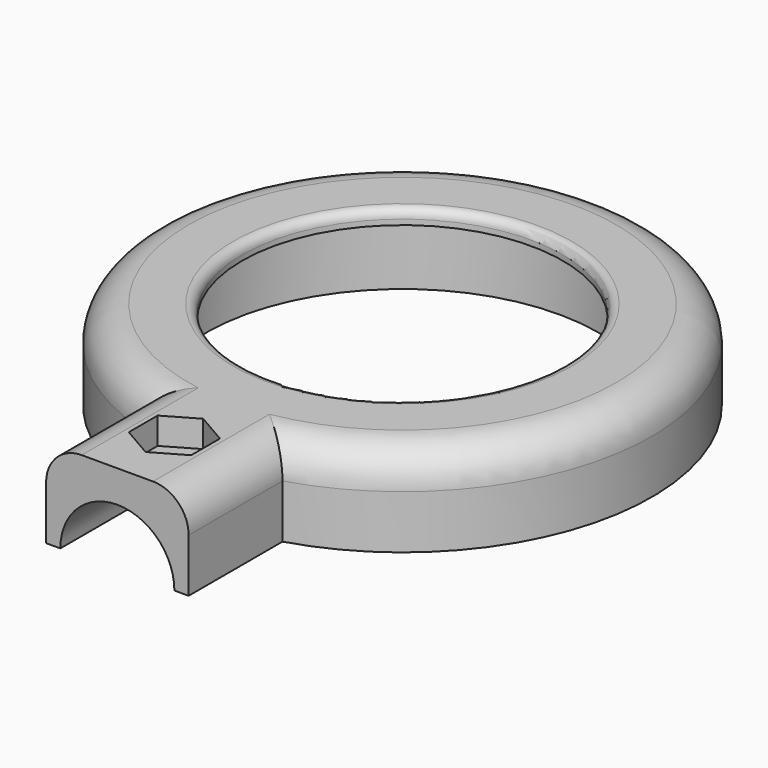
from build123d import *

# Parameters (mm, degrees)
SKETCH_R           = 18
PAD_DEPTH          = 10
SKETCH001_R        = 22
POCKET_DEPTH       = 8.4
SKETCH002_R        = 6.4
POCKET001_DEPTH    = 17
SKETCH003_R        = 5
POCKET002_DEPTH    = 5
SKETCH004_R        = 1
POCKET003_DEPTH    = 8
POLARPATTERN_COUNT = 5
POCKET004_DEPTH    = 3
SKETCH006_R        = 2
POCKET005_DEPTH    = 5
FILLET_R           = 4
FILLET001_R        = 1


with BuildPart() as part:
    # Sketch → Pad (new body)
    with BuildSketch(Plane.XY):
        with BuildLine():
            Line((-8, -40), (8, -40))
            Line((8, -40), (8, -26.832816))
            ThreePointArc((8, -26.832816), (0, 28), (-8, -26.832816))
            Line((-8, -26.832816), (-8, -40))
        make_face()
        Circle(SKETCH_R, mode=Mode.SUBTRACT)
    extrude(amount=PAD_DEPTH)

    # Sketch001 (on Face6 of Pad) → Pocket (cut)
    with BuildSketch(Plane(origin=(0, 0, 0), x_dir=(1, 0, 0), z_dir=(0, 0, -1))):
        Circle(SKETCH001_R)
    extrude(amount=-POCKET_DEPTH, mode=Mode.SUBTRACT)

    # Sketch002 (on Face1 of Pocket) → Pocket001 (cut)
    with BuildSketch(Plane.XZ.offset(40)):
        Circle(SKETCH002_R)
    extrude(amount=-POCKET001_DEPTH, mode=Mode.SUBTRACT)

    # Sketch003 (on Face7 of Pocket001) → Pocket002 (cut)
    with BuildSketch(Plane.XZ.offset(23)):
        Circle(SKETCH003_R)
    extrude(amount=-POCKET002_DEPTH, mode=Mode.SUBTRACT)

    # Sketch004 (on Face2 of Pocket002) → Pocket003 (cut)
    with BuildSketch(Plane(origin=(0, 0, 0), x_dir=(1, 0, 0), z_dir=(0, 0, -1))):
        with Locations((0, -25)):
            Circle(SKETCH004_R)
    pocket003 = extrude(amount=-POCKET003_DEPTH, mode=Mode.SUBTRACT)

    # PolarPattern: Pocket003 ×5 about axis
    polarpattern_axis = Axis((0, 0, 0), (0, 0, -1))
    for i in range(1, POLARPATTERN_COUNT):
        add(pocket003.rotate(polarpattern_axis, i * 360 / POLARPATTERN_COUNT), mode=Mode.SUBTRACT)

    # Sketch005 → Pocket004 (cut)
    with BuildSketch(Plane.XY.offset(10)):
        Polygon((0, -36.041452), (3.5, -34.020726), (3.5, -29.979274), (0, -27.958548), (-3.5, -29.979274), (-3.5, -34.020726), align=None)
    extrude(amount=-POCKET004_DEPTH, mode=Mode.SUBTRACT)

    # Sketch006 (on Face29 of Pocket004) → Pocket005 (cut)
    with BuildSketch(Plane.XY.offset(7)):
        with Locations((0, -32)):
            Circle(SKETCH006_R)
    extrude(amount=-POCKET005_DEPTH, mode=Mode.SUBTRACT)

    # Fillet
    fillet_edges = [part.edges().sort_by_distance(p)[0] for p in [
        (0, 28, 10),
        (8, -33.416408, 10),
        (-8, -33.416408, 10),
    ]]
    fillet(fillet_edges, radius=FILLET_R)

    # Fillet001
    fillet001_edges = [part.edges().sort_by_distance(p)[0] for p in [
        (-18, 0, 10),
    ]]
    fillet(fillet001_edges, radius=FILLET001_R)


solid = part.part
